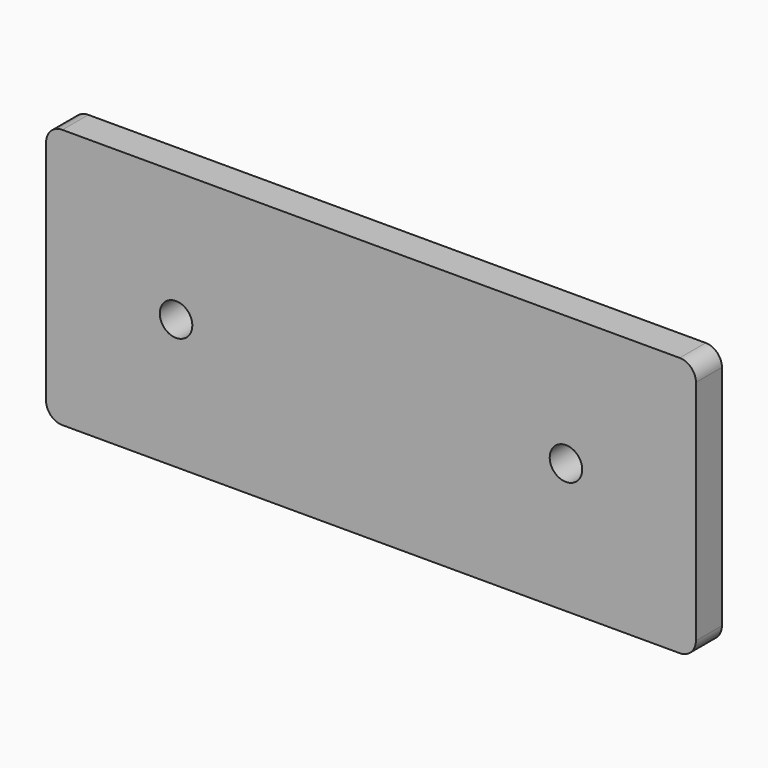
from build123d import *

# Parameters (mm, degrees)
F1_DEPTH = 12.7
F3_D     = 12.7
F3_DEPTH = 12.7


with BuildPart() as f1:
    # F0 (on Front) → F1 (new body)
    with BuildSketch(Plane.XZ):
        with BuildLine():
            Line((74.612494, 61.213997), (-166.687506, 61.213997))
            ThreePointArc((-166.687506, 61.213997), (-171.177634, 59.354126), (-173.037506, 54.863997))
            Line((-173.037506, 54.863997), (-173.037506, -34.036003))
            ThreePointArc((-173.037506, -34.036003), (-171.177634, -38.526131), (-166.687506, -40.386003))
            Line((-166.687506, -40.386003), (74.612494, -40.386003))
            ThreePointArc((74.612494, -40.386003), (79.102622, -38.526131), (80.962494, -34.036003))
            Line((80.962494, -34.036003), (80.962494, 54.863997))
            ThreePointArc((80.962494, 54.863997), (79.102622, 59.354126), (74.612494, 61.213997))
        make_face()
    extrude(amount=F1_DEPTH)

    # F3
    with Locations(Plane.XZ.offset(12.7)):
        with Locations((-122.237506, 10.413997), (30.162494, 10.413997)):
            Hole(F3_D / 2, depth=F3_DEPTH)


solid = f1.part
